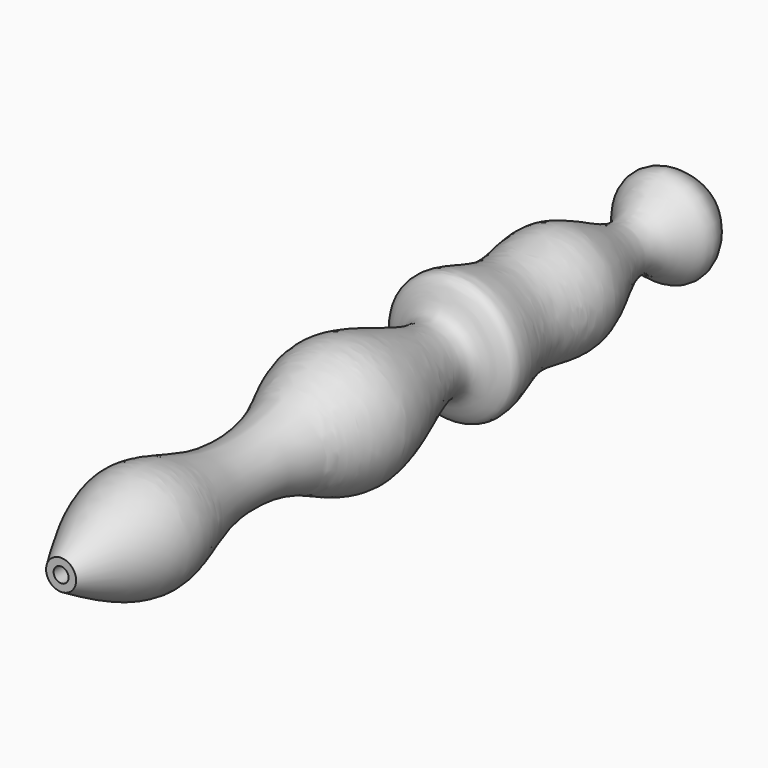
from build123d import *

# Parameters (mm, degrees)
F2_R     = 1.2415177505
F3_DEPTH = 125


with BuildPart() as f1:
    # F0 (on Right) → F1 (revolve)
    with BuildSketch(Plane.YZ):
        with BuildLine():
            Line((0, 2.5), (0, 0))
            Line((0, 0), (135, 0))
            add(Edge.make_bspline(
                [(0, 2.5), (5.5248006195, 5.7441904534), (15.8164367283, 11.7315782395), (29.0220269903, 4.4799019484), (46.3797699977, 5.0738408181), (58.2103867303, 14.6575913975), (79.679517167, 1.3027626858), (79.6874764014, 13.5336346019), (92.7630000662, 5.8617678062), (104.0871202175, 11.9957277303), (118.3437460064, 0.0456153458), (125.4757406949, 11.8492704106), (131.4523967553, 4.4956496555), (135, 0)],
                knots=[0, 0, 0, 0, 0.105110301, 0.19906978, 0.3011032336, 0.3975492296, 0.5079627145, 0.5671532362, 0.6510962156, 0.7404791789, 0.8373081801, 0.9100094878, 1, 1, 1, 1], degree=3))
        make_face()
    revolve(axis=Axis((0, 67.5, 0), (0, 1, 0)))

    # F2 (on face) → F3 (cut)
    with BuildSketch(Plane.XZ):
        Circle(F2_R)
    extrude(amount=-F3_DEPTH, mode=Mode.SUBTRACT)


solid = f1.part
